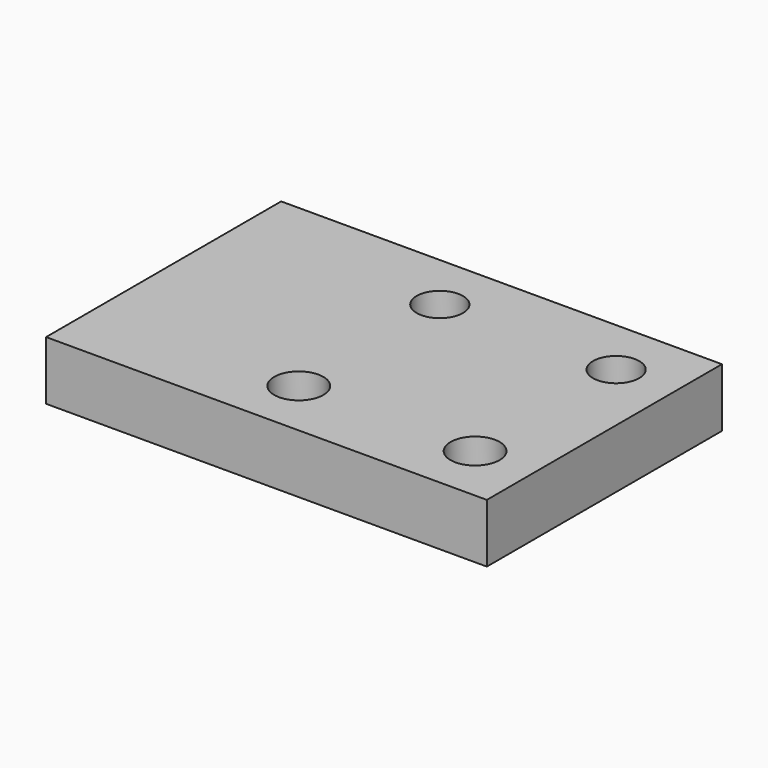
from build123d import *

# Parameters (mm, degrees)
F0_W     = 300
F0_H     = 200
F0_R     = 16.7141614778
F0_R_2   = 15.75
F0_R_3   = 8.7064811445
F0_R_4   = 8.75
F1_DEPTH = 40
F2_DEPTH = 20


with BuildPart() as f1:
    # F0 (on Top) → F1 (new body)
    with BuildSketch(Plane.XY):
        with Locations((0, -100)):
            Rectangle(F0_W, F0_H)
        with Locations((-10, -160)):
            Circle(F0_R, mode=Mode.SUBTRACT)
        with Locations((110, -160)):
            Circle(F0_R, mode=Mode.SUBTRACT)
        with Locations((-10, -40)):
            Circle(F0_R_2, mode=Mode.SUBTRACT)
        with Locations((110, -40)):
            Circle(F0_R_2, mode=Mode.SUBTRACT)
        with Locations((-10, -160)):
            Circle(F0_R)
        with Locations((-10, -160)):
            Circle(F0_R_3, mode=Mode.SUBTRACT)
        with Locations((110, -160)):
            Circle(F0_R)
        with Locations((110, -160)):
            Circle(F0_R_3, mode=Mode.SUBTRACT)
        with Locations((110, -40)):
            Circle(F0_R_2)
        with Locations((110, -40)):
            Circle(F0_R_4, mode=Mode.SUBTRACT)
        with Locations((-10, -40)):
            Circle(F0_R_2)
        with Locations((-10, -40)):
            Circle(F0_R_4, mode=Mode.SUBTRACT)
    extrude(amount=-F1_DEPTH)

    # F0 (on Top) → F2 (cut)
    with BuildSketch(Plane.XY):
        with Locations((-10, -160)):
            Circle(F0_R)
        with Locations((-10, -160)):
            Circle(F0_R_3, mode=Mode.SUBTRACT)
        with Locations((110, -160)):
            Circle(F0_R)
        with Locations((110, -160)):
            Circle(F0_R_3, mode=Mode.SUBTRACT)
        with Locations((-10, -40)):
            Circle(F0_R_2)
        with Locations((-10, -40)):
            Circle(F0_R_4, mode=Mode.SUBTRACT)
        with Locations((110, -40)):
            Circle(F0_R_2)
        with Locations((110, -40)):
            Circle(F0_R_4, mode=Mode.SUBTRACT)
    extrude(amount=-F2_DEPTH, mode=Mode.SUBTRACT)


solid = f1.part
